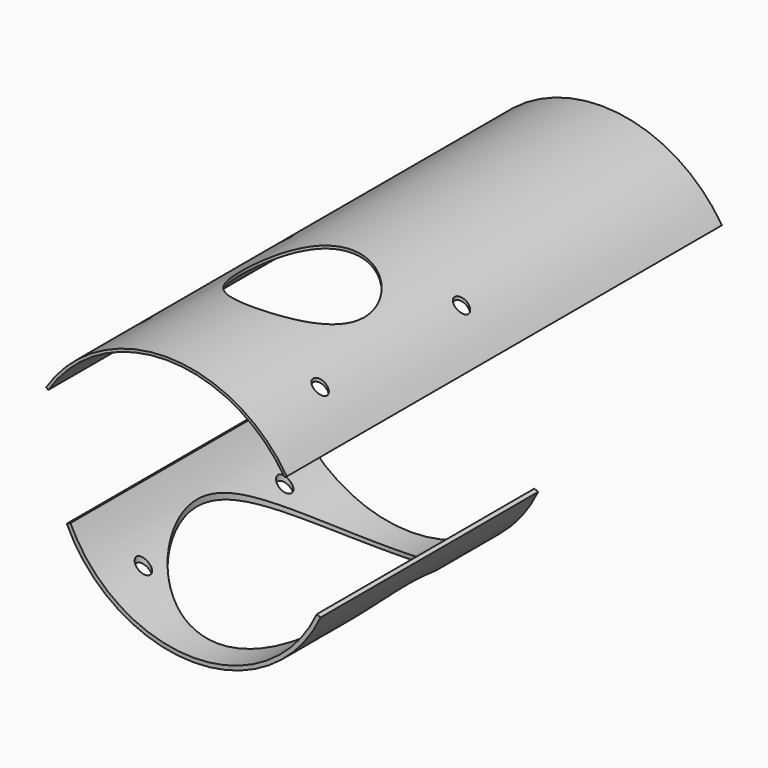
from build123d import *

# Parameters (mm, degrees)
F0_W      = 400
F0_H      = 2
F2_ANGLE  = 115
F3_R      = 45.5
F4_DEPTH  = 161
F5_R      = 5
F6_DEPTH  = 136
F7_DEPTH  = 110
F8_W      = 200
F8_H      = 3
F9_ANGLE  = 130
F10_R     = 77.5
F11_DEPTH = 132.7
F12_DEPTH = 210


with BuildPart() as f2:
    # F0 (on Right) → F2 (revolve, symmetric)
    with BuildSketch(Plane.YZ) as f2_sk:
        with Locations((75, 104)):
            Rectangle(F0_W, F0_H)
    revolve(axis=Axis((0, -3.322329, 0), (0, -1, 0)), revolution_arc=F2_ANGLE / 2)
    revolve(f2_sk.sketch, axis=Axis((0, -3.322329, 0), (0, 1, 0)), revolution_arc=F2_ANGLE / 2)

    # F3 (on Top) → F4 (cut)
    with BuildSketch(Plane.XY):
        Circle(F3_R)
    extrude(amount=F4_DEPTH, mode=Mode.SUBTRACT)

    # F5 (on Top) → F6 (cut)
    with BuildSketch(Plane.XY):
        with Locations((-65, 65)):
            Circle(F5_R)
    extrude(amount=F6_DEPTH, mode=Mode.SUBTRACT)

    # F5 (on Top) → F7 (cut, symmetric)
    with BuildSketch(Plane.XY):
        with Locations((-65, -65)):
            Circle(F5_R)
        with Locations((65, -65)):
            Circle(F5_R)
        with Locations((65, 65)):
            Circle(F5_R)
    extrude(amount=F7_DEPTH, both=True, mode=Mode.SUBTRACT)


with BuildPart() as f9:
    # F8 (on Right) → F9 (revolve, symmetric)
    with BuildSketch(Plane.YZ) as f9_sk:
        with Locations((0, -101.5)):
            Rectangle(F8_W, F8_H)
    revolve(axis=Axis((0, -3.322329, 0), (0, -1, 0)), revolution_arc=F9_ANGLE / 2)
    revolve(f9_sk.sketch, axis=Axis((0, -3.322329, 0), (0, 1, 0)), revolution_arc=F9_ANGLE / 2)

    # F10 (on Top) → F11 (cut)
    with BuildSketch(Plane.XY):
        Circle(F10_R)
    extrude(amount=-F11_DEPTH, mode=Mode.SUBTRACT)

    # F5 (on Top) → F12 (cut)
    with BuildSketch(Plane.XY):
        with Locations((-65, 65)):
            Circle(F5_R)
        with Locations((-65, -65)):
            Circle(F5_R)
        with Locations((65, -65)):
            Circle(F5_R)
        with Locations((65, 65)):
            Circle(F5_R)
    extrude(amount=-F12_DEPTH, mode=Mode.SUBTRACT)


solid = Compound([f2.part, f9.part])
